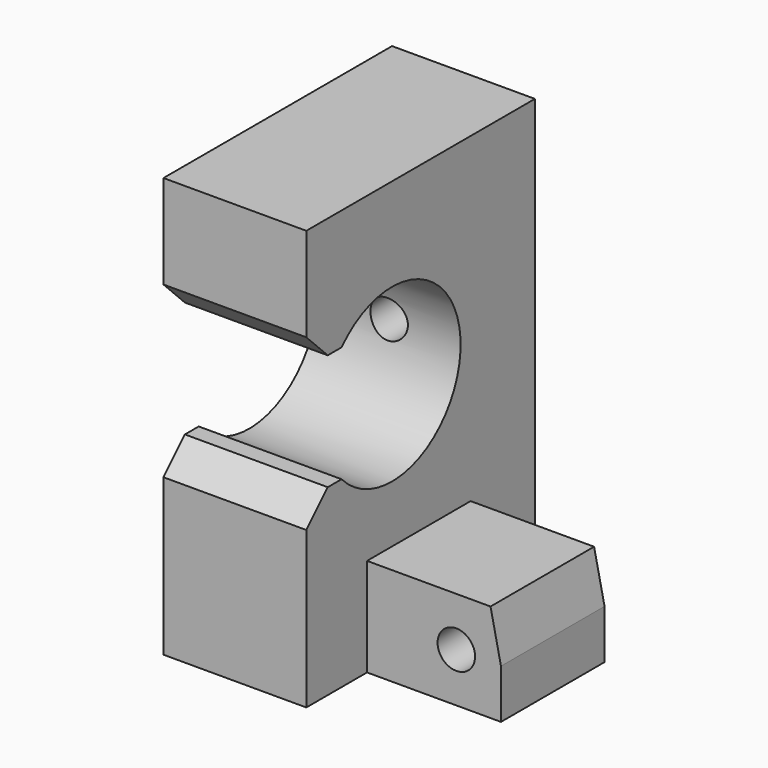
from build123d import *

# Parameters (mm, degrees)
F1_DEPTH = 16
F2_W     = 14.5
F2_H     = 11
F3_DEPTH = 15
F5_DEPTH = 23.501
F7_D     = 4.2
F9_D     = 4.2
F10_SIZE = 3


with BuildPart() as f1:
    # F0 (on Right) → F1 (new body)
    with BuildSketch(Plane.YZ):
        with BuildLine():
            ThreePointArc((-7.0647009845, 6.5), (9.6, 0), (-7.0647009845, -6.5))
            Line((-7.0647009845, -6.5), (-12, -6.5))
            Line((-12, -6.5), (-12, -27))
            Line((-12, -27), (20, -27))
            Line((20, -27), (20, 20))
            Line((20, 20), (-12, 20))
            Line((-12, 20), (-12, 6.5))
            Line((-12, 6.5), (-7.0647009845, 6.5))
        make_face()
    extrude(amount=F1_DEPTH)

    # F2 (on face) → F3 (join)
    with BuildSketch(Plane.YZ.offset(16)):
        with Locations((3.75, -21.5)):
            Rectangle(F2_W, F2_H)
    extrude(amount=F3_DEPTH)

    # F4 (on face) → F5 (cut, through all)
    with BuildSketch(Plane.XZ.offset(3.5)):
        Polygon((29.8309389108, -16), (31, -21.5), (31, -16), align=None)
    extrude(amount=-F5_DEPTH, mode=Mode.SUBTRACT)

    # F7 (through all)
    with Locations(Plane(origin=(0, 11, 0), x_dir=(-1, 0, 0), z_dir=(0, 1, 0))):
        with Locations((-26, -21.5)):
            Hole(F7_D / 2)

    # F9 (through all)
    with Locations(Plane(origin=(0, 20, 0), x_dir=(-1, 0, 0), z_dir=(0, 1, 0))):
        with Locations((-8, 0)):
            Hole(F9_D / 2)

    # F10
    f10_edges = [f1.edges().sort_by_distance(p)[0] for p in [
        (8, -12, 6.5),
        (8, -12, -6.5),
    ]]
    chamfer(f10_edges, length=F10_SIZE)


solid = f1.part
